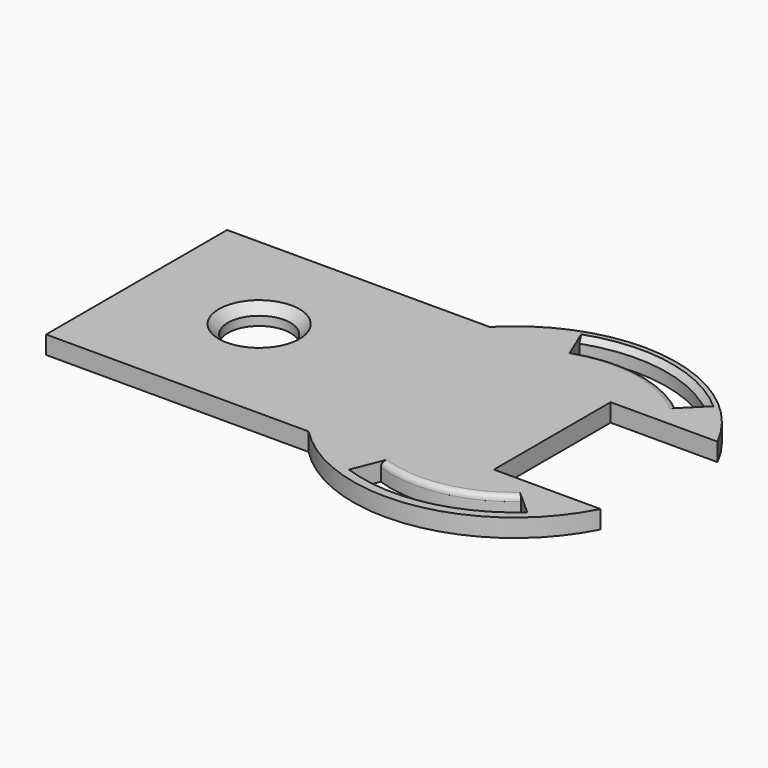
from build123d import *

# Parameters (mm, degrees)
PAD002_DEPTH    = 1
SKETCH007_R     = 1.692877
POCKET001_DEPTH = 1
SKETCH008_R     = 1.73446
POCKET002_DEPTH = 1
CHAMFER_SIZE    = 0.5
POCKET005_DEPTH = 5
SKETCH009_W     = 8.212181
SKETCH009_H     = 8.085074
POCKET006_DEPTH = 5
FILLET004_R     = 0.3
FILLET005_R     = 0.3
CHAMFER001_SIZE = 0.3
CHAMFER002_SIZE = 0.3


with BuildPart() as part:
    # Sketch006 → Pad002 (new body)
    with BuildSketch(Plane.XY.offset(5)):
        with BuildLine():
            Line((-9.568426, -6.285917), (4.972526, -6.285917))
            ThreePointArc((4.972526, -6.285917), (20.334041, -0.01843), (4.970857, 6.244966))
            Line((-9.568426, 6.244966), (4.970857, 6.244966))
            Line((-9.568426, -6.285917), (-9.568426, 6.244966))
        make_face()
    extrude(amount=PAD002_DEPTH)

    # Sketch007 (on Pad) → Pocket001 (cut)
    with BuildSketch(Plane.XY.offset(5)):
        with Locations((-2.957902, 0.204839)):
            Circle(SKETCH007_R)
    extrude(amount=-POCKET001_DEPTH, mode=Mode.SUBTRACT)

    # Sketch008 (on Face6 of Pad002) → Pocket002 (cut)
    with BuildSketch(Plane.XY.offset(6)):
        with Locations((-2.984237, 0.234427)):
            Circle(SKETCH008_R)
    extrude(amount=-POCKET002_DEPTH, mode=Mode.SUBTRACT)

    # Chamfer
    chamfer_edges = [part.edges().sort_by_distance(p)[0] for p in [
        (-4.718697, 0.234427, 6),
    ]]
    chamfer(chamfer_edges, length=CHAMFER_SIZE)

    # Sketch011 → Pocket005 (cut)
    with BuildSketch(Plane.XY.offset(6)):
        with BuildLine():
            ThreePointArc((16.954988, 6.278391), (13.004004, 8.225263), (8.611476, 7.899254))
            Line((8.611476, 7.899254), (9.109037, 6.707427))
            ThreePointArc((16.036381, 5.369056), (12.751013, 6.961134), (9.109037, 6.707427))
            Line((16.954988, 6.278391), (16.036381, 5.369056))
        make_face()
        with BuildLine():
            ThreePointArc((8.677646, -7.709712), (12.991395, -8.023159), (16.861761, -6.092627))
            Line((15.900234, -5.234123), (16.861761, -6.092627))
            ThreePointArc((9.154517, -6.521003), (12.69888, -6.776571), (15.900234, -5.234123))
            Line((8.677646, -7.709712), (9.154517, -6.521003))
        make_face()
    extrude(amount=-POCKET005_DEPTH, mode=Mode.SUBTRACT)

    # Sketch009 (on Face1 of Chamfer) → Pocket006 (cut)
    with BuildSketch(Plane.XY.offset(6)):
        with Locations((17.565425, -0.029473)):
            Rectangle(SKETCH009_W, SKETCH009_H)
    extrude(amount=-POCKET006_DEPTH, mode=Mode.SUBTRACT)

    # Fillet004
    fillet004_edges = [part.edges().sort_by_distance(p)[0] for p in [
        (12.69888, -6.776571, 6),
    ]]
    fillet(fillet004_edges, radius=FILLET004_R)

    # Fillet005
    fillet005_edges = [part.edges().sort_by_distance(p)[0] for p in [
        (12.751013, 6.961134, 6),
    ]]
    fillet(fillet005_edges, radius=FILLET005_R)

    # Chamfer001
    chamfer001_edges = [part.edges().sort_by_distance(p)[0] for p in [
        (12.991395, -8.023159, 6),
    ]]
    chamfer(chamfer001_edges, length=CHAMFER001_SIZE)

    # Chamfer002
    chamfer002_edges = [part.edges().sort_by_distance(p)[0] for p in [
        (13.004004, 8.225263, 6),
    ]]
    chamfer(chamfer002_edges, length=CHAMFER002_SIZE)


solid = part.part
